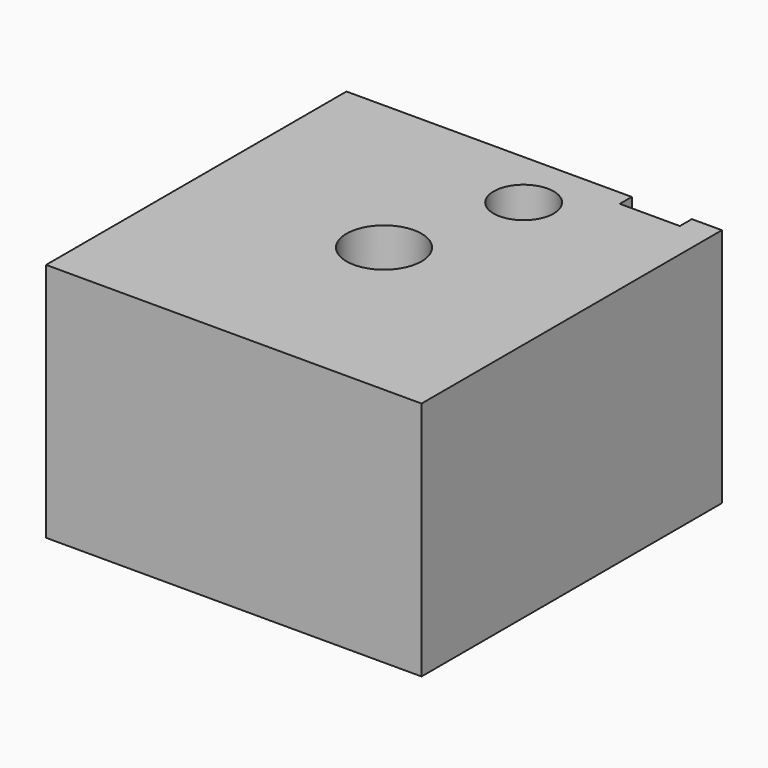
from build123d import *

# Parameters (mm, degrees)
F0_W      = 50
F0_H      = 50
F0_R      = 5
F1_DEPTH  = 16
F2_W      = 8
F2_H      = 2
F3_DEPTH  = 32.001
F4_R      = 3
F5_DEPTH  = 32.001
F6_R      = 4
F6_R_2    = 3
F7_DEPTH  = 24
F8_R      = 6
F9_DEPTH  = 18
F10_SIZE2 = 3
F10_SIZE  = 3
F12_D     = 2.5
F12_DEPTH = 8
F12_TIP   = 0.7510757738


with BuildPart() as f1:
    # F0 (on Top) → F1 (new body, symmetric)
    with BuildSketch(Plane.XY):
        Rectangle(F0_W, F0_H)
        Circle(F0_R, mode=Mode.SUBTRACT)
    extrude(amount=F1_DEPTH, both=True)

    # F2 (on face) → F3 (cut, through all)
    with BuildSketch(Plane.XY.offset(16)):
        with Locations((17, 24)):
            Rectangle(F2_W, F2_H)
    extrude(amount=-F3_DEPTH, mode=Mode.SUBTRACT)

    # F4 (on face) → F5 (cut, through all)
    with BuildSketch(Plane.XY.offset(16)):
        with Locations((5, 17)):
            Circle(F4_R)
    extrude(amount=-F5_DEPTH, mode=Mode.SUBTRACT)

    # F6 (on face) → F7 (cut)
    with BuildSketch(Plane.XY.offset(16)):
        with Locations((5, 17)):
            Circle(F6_R)
        with Locations((5, 17)):
            Circle(F6_R_2, mode=Mode.SUBTRACT)
    extrude(amount=-F7_DEPTH, mode=Mode.SUBTRACT)

    # F8 (on face) → F9 (cut)
    with BuildSketch(Plane(origin=(0, 25, 0), x_dir=(-1, 0, 0), z_dir=(0, 1, 0))):
        with Locations((-5, -1)):
            Circle(F8_R)
    extrude(amount=-F9_DEPTH, mode=Mode.SUBTRACT)

    # F10
    f10_edges = [f1.edges().sort_by_distance(p)[0] for p in [
        (2, 17, -16),
    ]]
    chamfer(f10_edges, length=F10_SIZE, length2=F10_SIZE2)

    # F12
    with Locations(Plane(origin=(0, 23, 0), x_dir=(-1, 0, 0), z_dir=(0, 1, 0))):
        with Locations((-17, 8), (-17, -8)):
            Hole(F12_D / 2, depth=F12_DEPTH)
            with Locations((0, 0, -(F12_DEPTH + F12_TIP / 2))):  # 118° drill point
                Cone(0, F12_D / 2, F12_TIP, mode=Mode.SUBTRACT)


solid = f1.part
